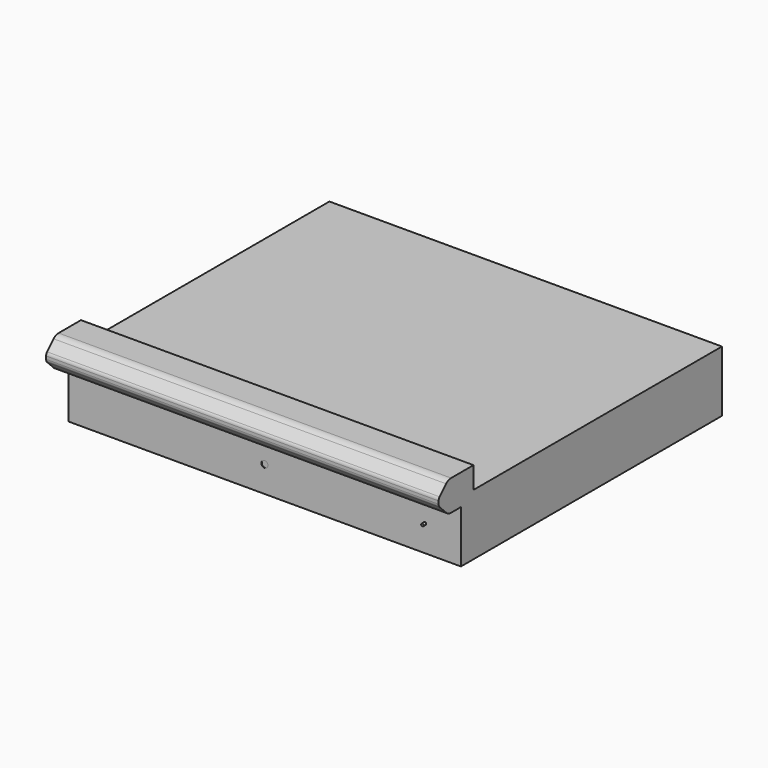
from build123d import *

# Parameters (mm, degrees)
F1_DEPTH = 900
F2_SIZE  = 27.5
F3_R     = 20
F4_R     = 10
F5_R     = 3
F6_DEPTH = 8
F7_DEPTH = 1
F8_R     = 7.5
F9_DEPTH = 1


with BuildPart() as f1:
    # F0 (on Right) → F1 (new body)
    with BuildSketch(Plane.YZ):
        Polygon((-332.7987321251, 333.6483673438), (-402.7987321251, 333.6483673438), (-1044.7987321251, 333.6483673438), (-1044.7987321251, 383.6483673438), (-1144.7987321251, 383.6483673438), (-1144.7987321251, 313.6483673438), (-1079.7987321251, 313.6483673438), (-1079.7987321251, 193.6483673438), (-1029.7987321251, 193.6483673438), (-332.7987321251, 193.6483673438), align=None)
    extrude(amount=F1_DEPTH)

    # F2
    f2_edges = [f1.edges().sort_by_distance(p)[0] for p in [
        (450, -1144.798732, 383.648367),
        (450, -1144.798732, 313.648367),
    ]]
    chamfer(f2_edges, length=F2_SIZE)

    # F3
    f3_edges = [f1.edges().sort_by_distance(p)[0] for p in [
        (450, -1117.298732, 383.648367),
        (450, -1117.298732, 313.648367),
    ]]
    fillet(f3_edges, radius=F3_R)

    # F4
    f4_edges = [f1.edges().sort_by_distance(p)[0] for p in [
        (450, -1144.798732, 356.148367),
        (450, -1144.798732, 341.148367),
    ]]
    fillet(f4_edges, radius=F4_R)

    # F5 (on face) → F6 (join)
    with BuildSketch(Plane.XZ.offset(1079.7987321251)):
        with Locations((817.5, 253.6483673438)):
            Circle(F5_R)
    extrude(amount=F6_DEPTH)


with BuildPart() as f7:
    # F7 (new): a face of the model
    f7_faces = [f1.part.faces().sort_by_distance(p)[0] for p in [
        (449.9037635303, -1079.7987321251, 253.6483673438),
    ]]
    extrude(f7_faces, amount=F7_DEPTH)

    # F8 (on face) → F9 (cut)
    with BuildSketch(Plane.XZ.offset(1080.7987321251)):
        with Locations((450, 253.6483673438)):
            Circle(F8_R)
    extrude(amount=-F9_DEPTH, mode=Mode.SUBTRACT)


solid = Compound([f1.part, f7.part])
